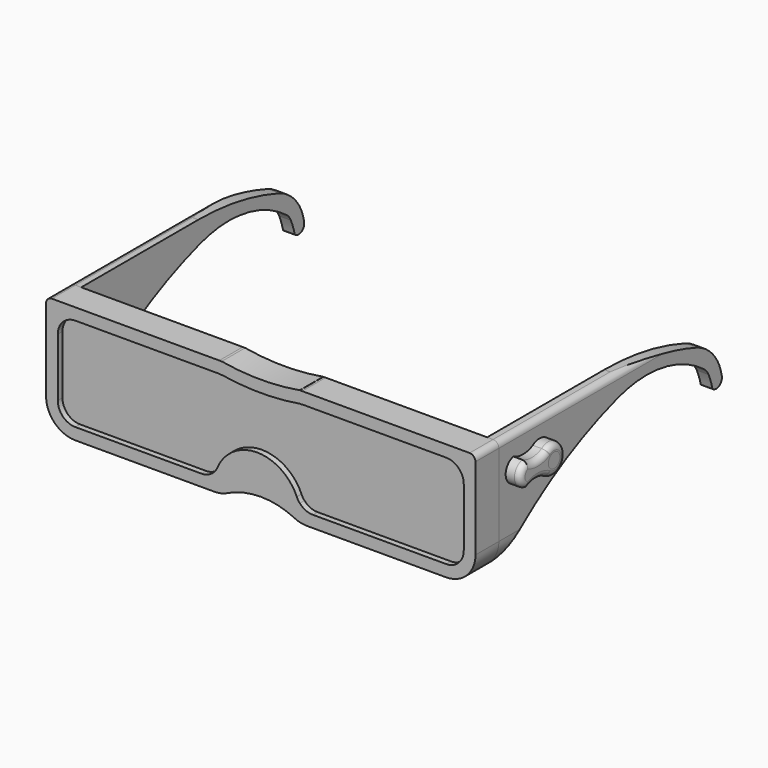
from build123d import *

# Parameters (mm, degrees)
F1_DEPTH  = 6.35
F3_DEPTH  = 63.5
F5_DEPTH  = 25.4
F7_DEPTH  = 63.5
F9_DEPTH  = 25.4
F10_DEPTH = 5.08
F11_R     = 1.5748
F12_DEPTH = 3.175
F13_R     = 1.27
F14_DEPTH = 3.175
F15_W     = 1.9264395814
F15_H     = 4.7258371487
F16_DEPTH = 1.27


with BuildPart() as f1:
    # F0 (on Front) → F1 (new body)
    with BuildSketch(Plane.XZ):
        with BuildLine():
            Line((-40.0381173572, 25.6722359736), (-73.8030107671, 25.6722359736))
            Line((-73.8030107671, 25.6722359736), (-76.3430107671, 25.6722359736))
            ThreePointArc((-76.3430107671, 25.6722359736), (-77.2410363792, 25.3002615857), (-77.6130107671, 24.4022359736))
            Line((-77.6130107671, 24.4022359736), (-77.6130107671, 21.8622359736))
            Line((-77.6130107671, 21.8622359736), (-77.6130107671, 6.6222359736))
            ThreePointArc((-77.6130107671, 6.6222359736), (-75.7531388276, 2.132107913), (-71.2630107671, 0.2722359736))
            Line((-71.2630107671, 0.2722359736), (-41.09798506, 0.2722359736))
            ThreePointArc((-41.09798506, 0.2722359736), (-40.2991516251, 0.3226832003), (-39.5130107671, 0.47322333))
            Line((-39.5130107671, 0.47322333), (-39.5130107671, 6.7891446908))
            ThreePointArc((-39.5130107671, 6.7891446908), (-40.0202279209, 5.9780156736), (-40.4420140249, 5.1193562498))
            ThreePointArc((-40.4420140249, 5.1193562498), (-41.8466376876, 3.4408784216), (-43.943078511, 2.8122359736))
            Line((-43.943078511, 2.8122359736), (-71.2630107671, 2.8122359736))
            ThreePointArc((-71.2630107671, 2.8122359736), (-73.9570876034, 3.9281591372), (-75.0730107671, 6.6222359736))
            Line((-75.0730107671, 6.6222359736), (-75.0730107671, 19.3222363986))
            ThreePointArc((-75.0730107671, 19.3222363986), (-73.9570876034, 22.0163132349), (-71.2630107671, 23.1322363986))
            Line((-71.2630107671, 23.1322363986), (-40.3717744957, 23.1322363986))
            ThreePointArc((-40.3717744957, 23.1322363986), (-39.939603358, 23.1076462982), (-39.5130107671, 23.0341934105))
            Line((-39.5130107671, 23.0341934105), (-39.5130107671, 23.0957610066))
            Line((-39.5130107671, 23.0957610066), (-39.5130107671, 25.6358765326))
            ThreePointArc((-39.5130107671, 25.6358765326), (-39.7749354145, 25.6631352441), (-40.0381173572, 25.6722359736))
        make_face()
        with BuildLine():
            Line((-39.5130107671, 25.6722359736), (-39.5130107671, 25.6358765326))
            Line((-39.5130107671, 25.6358765326), (-39.5130107671, 23.0957610066))
            ThreePointArc((-39.5130107671, 23.0957610066), (-31.0471907671, 22.398971608), (-22.5813707671, 23.0957610066))
            Line((-22.5813707671, 23.0957610066), (-22.5813707671, 25.6358765326))
            Line((-22.5813707671, 25.6358765326), (-22.5813707671, 25.6722359736))
            ThreePointArc((-22.5813707671, 25.6722359736), (-31.0471907671, 24.938971608), (-39.5130107671, 25.6722359736))
        make_face()
        with BuildLine():
            Line((-22.5813707671, 25.6358765326), (-22.5813707671, 23.0957610066))
            Line((-22.5813707671, 23.0957610066), (-22.5813707671, 23.0341934105))
            ThreePointArc((-22.5813707671, 23.0341934105), (-22.1547781762, 23.1076462982), (-21.7226070385, 23.1322363986))
            Line((-21.7226070385, 23.1322363986), (9.1686292329, 23.1322363986))
            ThreePointArc((9.1686292329, 23.1322363986), (11.8627060692, 22.0163132349), (12.9786292329, 19.3222363986))
            Line((12.9786292329, 19.3222363986), (12.9786292329, 6.6222359736))
            ThreePointArc((12.9786292329, 6.6222359736), (11.8627060692, 3.9281591372), (9.1686292329, 2.8122359736))
            Line((9.1686292329, 2.8122359736), (-19.736277316, 2.8122359736))
            ThreePointArc((-19.736277316, 2.8122359736), (-21.2953265256, 3.1458203537), (-22.5813707671, 4.088159563))
            Line((-22.5813707671, 4.088159563), (-22.5813707671, 0.47322333))
            ThreePointArc((-22.5813707671, 0.47322333), (-21.7952299091, 0.3226832003), (-20.9963964742, 0.2722359736))
            Line((-20.9963964742, 0.2722359736), (9.1686292329, 0.2722359736))
            ThreePointArc((9.1686292329, 0.2722359736), (13.6587572934, 2.132107913), (15.5186292329, 6.6222359736))
            Line((15.5186292329, 6.6222359736), (15.5186292329, 21.8622359736))
            Line((15.5186292329, 21.8622359736), (15.5186292329, 24.4022359736))
            ThreePointArc((15.5186292329, 24.4022359736), (15.146654845, 25.3002615857), (14.2486292329, 25.6722359736))
            Line((14.2486292329, 25.6722359736), (11.7086292329, 25.6722359736))
            Line((11.7086292329, 25.6722359736), (-22.056264177, 25.6722359736))
            ThreePointArc((-22.056264177, 25.6722359736), (-22.3194461197, 25.6631352441), (-22.5813707671, 25.6358765326))
        make_face()
        with BuildLine():
            ThreePointArc((-23.2373418022, 5.1193562498), (-30.884266943, 10.7392146852), (-39.5130107671, 6.7891446908))
            Line((-39.5130107671, 6.7891446908), (-39.5130107671, 0.47322333))
            ThreePointArc((-39.5130107671, 0.47322333), (-38.9078916154, 0.6618676373), (-38.3245936028, 0.9098984638))
            ThreePointArc((-38.3245936028, 0.9098984638), (-31.0471907671, 2.5831302763), (-23.7697879314, 0.9098984638))
            ThreePointArc((-23.7697879314, 0.9098984638), (-23.1864899188, 0.6618676373), (-22.5813707671, 0.47322333))
            Line((-22.5813707671, 0.47322333), (-22.5813707671, 4.088159563))
            ThreePointArc((-22.5813707671, 4.088159563), (-22.9509735369, 4.5772840897), (-23.2373418022, 5.1193562498))
        make_face()
    extrude(amount=F1_DEPTH)


with BuildPart() as f3:
    # F2 (on face) → F3 (new body)
    with BuildSketch(Plane(origin=(0, 0, 0), x_dir=(-1, 0, 0), z_dir=(0, 1, 0))):
        with BuildLine():
            ThreePointArc((-14.2486292329, 25.6722359736), (-15.146654845, 25.3002615857), (-15.5186292329, 24.4022359736))
            Line((-15.5186292329, 24.4022359736), (-15.5186292329, 6.6222359736))
            ThreePointArc((-15.5186292329, 6.6222359736), (-14.8482418957, 3.7824296421), (-12.9786292329, 1.5422359736))
            Line((-12.9786292329, 1.5422359736), (-12.9786292329, 6.6222359736))
            Line((-12.9786292329, 6.6222359736), (-12.9786292329, 19.3222363986))
            Line((-12.9786292329, 19.3222363986), (-12.9786292329, 25.6722359736))
            Line((-12.9786292329, 25.6722359736), (-14.2486292329, 25.6722359736))
        make_face()
    extrude(amount=F3_DEPTH)

    # F4 (on face) → F5 (cut)
    with BuildSketch(Plane(origin=(12.9786292329, 0, 0), x_dir=(0, -1, 0), z_dir=(-1, 0, 0))):
        with BuildLine():
            ThreePointArc((-53.7695102394, 21.766545251), (-42.9316060027, 24.6882518325), (-31.75, 25.6722359736))
            Line((-31.75, 25.6722359736), (-63.5, 25.6722359736))
            Line((-63.5, 25.6722359736), (-63.5, 1.5422359736))
            Line((-63.5, 1.5422359736), (0, 1.5422359736))
            ThreePointArc((0, 1.5422359736), (-14.8543093701, 13.0549846278), (-31.9704860449, 20.815808326))
            ThreePointArc((-31.9704860449, 20.815808326), (-44.3098307725, 21.7699772497), (-55.669509897, 16.8579963022))
            ThreePointArc((-55.669509897, 16.8579963022), (-56.351144612, 16.1883823119), (-56.8447353338, 15.3702276934))
            ThreePointArc((-56.8447353338, 15.3702276934), (-57.4524994651, 13.8056386217), (-57.9120032489, 12.1912742034))
            ThreePointArc((-57.9120032489, 12.1912742034), (-59.718488222, 12.0130201445), (-60.4246631265, 13.6852879077))
            ThreePointArc((-60.4246631265, 13.6852879077), (-58.1573067134, 18.5990389286), (-53.7695102394, 21.766545251))
        make_face()
    extrude(amount=-F5_DEPTH, mode=Mode.SUBTRACT)


with BuildPart() as f7:
    # F6 (on face) → F7 (new body)
    with BuildSketch(Plane(origin=(0, 0, 0), x_dir=(-1, 0, 0), z_dir=(0, 1, 0))):
        with BuildLine():
            Line((75.0730107671, 25.6722359736), (75.0730107671, 19.3222363986))
            Line((75.0730107671, 19.3222363986), (75.0730107671, 6.6222359736))
            Line((75.0730107671, 6.6222359736), (75.0730107671, 1.5422359736))
            ThreePointArc((75.0730107671, 1.5422359736), (76.94262343, 3.7824296421), (77.6130107671, 6.6222359736))
            Line((77.6130107671, 6.6222359736), (77.6130107671, 24.4022359736))
            ThreePointArc((77.6130107671, 24.4022359736), (77.2410363792, 25.3002615857), (76.3430107671, 25.6722359736))
            Line((76.3430107671, 25.6722359736), (75.0730107671, 25.6722359736))
        make_face()
    extrude(amount=F7_DEPTH)

    # F8 (on face) → F9 (cut)
    with BuildSketch(Plane.YZ.offset(-75.0730107671)):
        with BuildLine():
            Line((63.5, 25.6722359736), (31.75, 25.6722359736))
            ThreePointArc((31.75, 25.6722359736), (42.9316060027, 24.6882518325), (53.7695102394, 21.766545251))
            ThreePointArc((53.7695102394, 21.766545251), (58.1573067134, 18.5990389286), (60.4246631265, 13.6852879077))
            ThreePointArc((60.4246631265, 13.6852879077), (59.718488222, 12.0130201445), (57.9120032489, 12.1912742034))
            ThreePointArc((57.9120032489, 12.1912742034), (57.4524994651, 13.8056386217), (56.8447353338, 15.3702276934))
            ThreePointArc((56.8447353338, 15.3702276934), (56.351144612, 16.1883823119), (55.669509897, 16.8579963022))
            ThreePointArc((55.669509897, 16.8579963022), (44.3098307725, 21.7699772497), (31.9704860449, 20.815808326))
            ThreePointArc((31.9704860449, 20.815808326), (14.8543093701, 13.0549846278), (0, 1.5422359736))
            Line((0, 1.5422359736), (63.5, 1.5422359736))
            Line((63.5, 1.5422359736), (63.5, 25.6722359736))
        make_face()
    extrude(amount=-F9_DEPTH, mode=Mode.SUBTRACT)


with BuildPart() as f10:
    # F0 (on Front) → F10 (new body)
    with BuildSketch(Plane.XZ):
        with BuildLine():
            Line((-39.5130107671, 6.7891446908), (-39.5130107671, 23.0341934105))
            ThreePointArc((-39.5130107671, 23.0341934105), (-39.939603358, 23.1076462982), (-40.3717744957, 23.1322363986))
            Line((-40.3717744957, 23.1322363986), (-71.2630107671, 23.1322363986))
            ThreePointArc((-71.2630107671, 23.1322363986), (-73.9570876034, 22.0163132349), (-75.0730107671, 19.3222363986))
            Line((-75.0730107671, 19.3222363986), (-75.0730107671, 6.6222359736))
            ThreePointArc((-75.0730107671, 6.6222359736), (-73.9570876034, 3.9281591372), (-71.2630107671, 2.8122359736))
            Line((-71.2630107671, 2.8122359736), (-43.943078511, 2.8122359736))
            ThreePointArc((-43.943078511, 2.8122359736), (-41.8466376876, 3.4408784216), (-40.4420140249, 5.1193562498))
            ThreePointArc((-40.4420140249, 5.1193562498), (-40.0202279209, 5.9780156736), (-39.5130107671, 6.7891446908))
        make_face()
        with BuildLine():
            ThreePointArc((-22.5813707671, 23.0957610066), (-31.0471907671, 22.398971608), (-39.5130107671, 23.0957610066))
            Line((-39.5130107671, 23.0957610066), (-39.5130107671, 23.0341934105))
            Line((-39.5130107671, 23.0341934105), (-39.5130107671, 6.7891446908))
            ThreePointArc((-39.5130107671, 6.7891446908), (-30.884266943, 10.7392146852), (-23.2373418022, 5.1193562498))
            ThreePointArc((-23.2373418022, 5.1193562498), (-22.9509735369, 4.5772840897), (-22.5813707671, 4.088159563))
            Line((-22.5813707671, 4.088159563), (-22.5813707671, 23.0341934105))
            Line((-22.5813707671, 23.0341934105), (-22.5813707671, 23.0957610066))
        make_face()
        with BuildLine():
            ThreePointArc((-21.7226070385, 23.1322363986), (-22.1547781762, 23.1076462982), (-22.5813707671, 23.0341934105))
            Line((-22.5813707671, 23.0341934105), (-22.5813707671, 4.088159563))
            ThreePointArc((-22.5813707671, 4.088159563), (-21.2953265256, 3.1458203537), (-19.736277316, 2.8122359736))
            Line((-19.736277316, 2.8122359736), (9.1686292329, 2.8122359736))
            ThreePointArc((9.1686292329, 2.8122359736), (11.8627060692, 3.9281591372), (12.9786292329, 6.6222359736))
            Line((12.9786292329, 6.6222359736), (12.9786292329, 19.3222363986))
            ThreePointArc((12.9786292329, 19.3222363986), (11.8627060692, 22.0163132349), (9.1686292329, 23.1322363986))
            Line((9.1686292329, 23.1322363986), (-21.7226070385, 23.1322363986))
        make_face()
    extrude(amount=F10_DEPTH)


with BuildPart() as f12:
    # F11 (on face) → F12 (new body)
    with BuildSketch(Plane.YZ.offset(15.5186292329)):
        with BuildLine():
            ThreePointArc((9.1941263527, 21.2305486202), (6.5632248297, 20.5845660498), (3.9323233068, 21.2305486202))
            ThreePointArc((3.9323233068, 21.2305486202), (1.836425733, 18.7160235774), (3.8024031091, 16.0986669362))
            ThreePointArc((3.8024031091, 16.0986669362), (6.4982647309, 16.7778898769), (9.1941263527, 16.0986669362))
            ThreePointArc((9.1941263527, 16.0986669362), (14.1661902315, 18.6646077782), (9.1941263527, 21.2305486202))
        make_face()
        with Locations((11.0180537249, 18.6646077782)):
            Circle(F11_R, mode=Mode.SUBTRACT)
    extrude(amount=F12_DEPTH)

    # F13
    f13_edges = [f12.edges().sort_by_distance(p)[0] for p in [
        (18.693629, 1.836426, 18.716024),
        (18.693629, 6.563225, 20.584566),
        (18.693629, 14.16619, 18.664608),
        (18.693629, 6.498265, 16.77789),
    ]]
    fillet(f13_edges, radius=F13_R)


with BuildPart() as f14:
    # F11 (on face) → F14 (new body)
    with BuildSketch(Plane.YZ.offset(15.5186292329)):
        with Locations((11.0180537249, 18.6646077782)):
            Circle(F11_R)
    extrude(amount=F14_DEPTH)


with BuildPart() as f16:
    # F15 (on face) → F16 (new body)
    with BuildSketch(Plane(origin=(12.9786292329, 0, 0), x_dir=(0, -1, 0), z_dir=(-1, 0, 0))):
        with Locations((-2.5037919404, 8.876980748)):
            Rectangle(F15_W, F15_H)
    extrude(amount=F16_DEPTH)


solid = Compound([f1.part, f3.part, f7.part, f10.part, f12.part, f14.part, f16.part])
